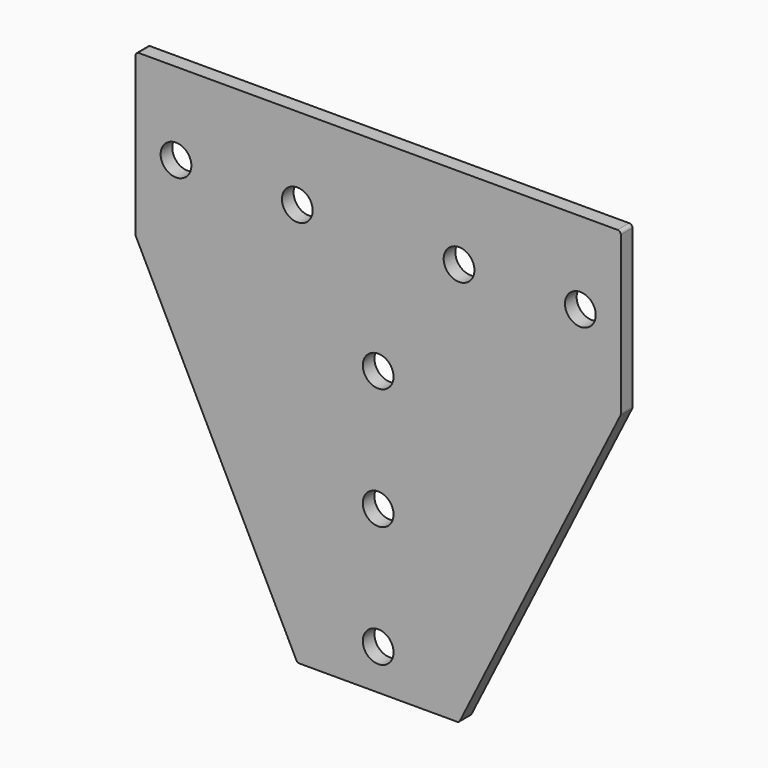
from build123d import *

# Parameters (mm, degrees)
F1_DEPTH = 2.286
F2_R     = 0.508
F3_R     = 2.413
F4_DEPTH = 2.286


with BuildPart() as f1:
    # F0 (on Front) → F1 (new body)
    with BuildSketch(Plane.XZ):
        Polygon((39.133413, 0), (-37.066587, 0), (-37.066587, -25.4), (-11.666587, -76.2), (13.733413, -76.2), (39.133413, -25.4), align=None)
    extrude(amount=F1_DEPTH)

    # F2
    f2_edges = [f1.edges().sort_by_distance(p)[0] for p in [
        (-37.066587, -1.143, 0),
        (-37.066587, -1.143, -25.4),
        (39.133413, -1.143, 0),
        (39.133413, -1.143, -25.4),
        (13.733413, -1.143, -76.2),
        (-11.666587, -1.143, -76.2),
    ]]
    fillet(f2_edges, radius=F2_R)

    # F3 (on face) → F4 (cut)
    with BuildSketch(Plane.XZ.offset(2.286)):
        with Locations((-30.716587, -12.894039)):
            Circle(F3_R)
        with Locations((-11.666587, -12.894039)):
            Circle(F3_R)
        with Locations((13.733413, -12.894039)):
            Circle(F3_R)
        with Locations((32.783413, -12.894039)):
            Circle(F3_R)
        with Locations((1.033413, -31.75)):
            Circle(F3_R)
        with Locations((1.033413, -50.8)):
            Circle(F3_R)
        with Locations((1.033413, -69.85)):
            Circle(F3_R)
    extrude(amount=-F4_DEPTH, mode=Mode.SUBTRACT)


solid = f1.part
